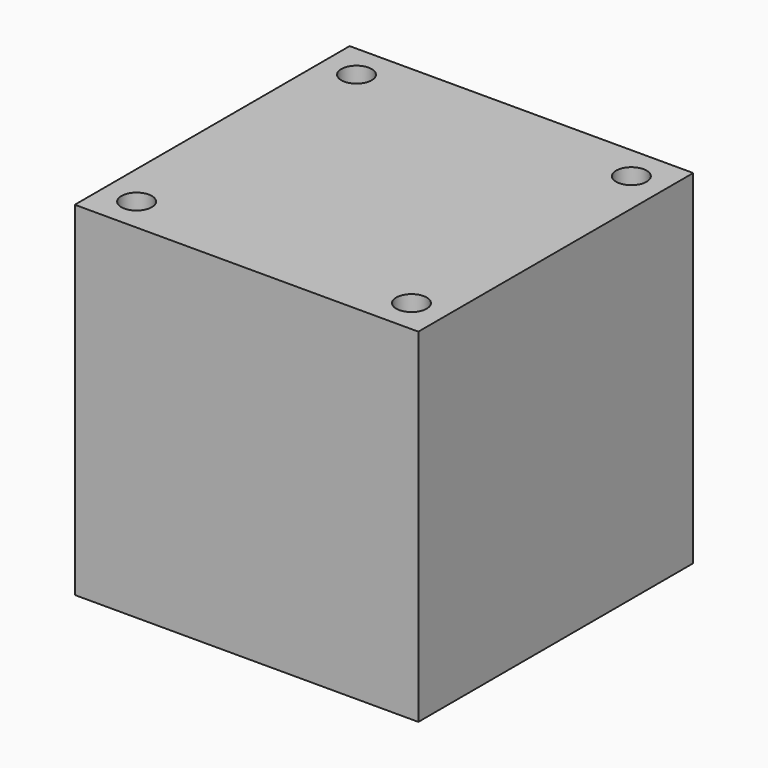
from build123d import *

# Parameters (mm, degrees)
F0_W           = 127
F0_H           = 127
F1_DEPTH       = 127
F3_D           = 5.4
F3_CBORE_D     = 11.25
F3_CBORE_DEPTH = 6


with BuildPart() as f1:
    # F0 (on Top) → F1 (new body)
    with BuildSketch(Plane.XY):
        Rectangle(F0_W, F0_H)
    extrude(amount=-F1_DEPTH)

    # F3 (through all)
    with Locations(Plane.XY):
        with Locations((-50.8, 50.8), (-50.8, -50.8), (50.8, -50.8), (50.8, 50.8)):
            CounterBoreHole(F3_D / 2, F3_CBORE_D / 2, F3_CBORE_DEPTH)


solid = f1.part
